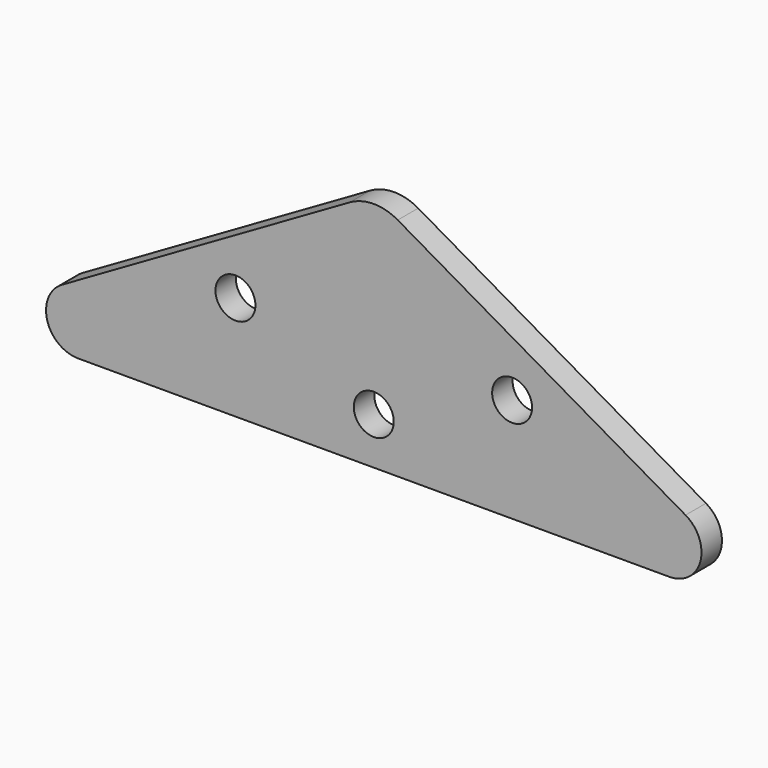
from build123d import *

# Parameters (mm, degrees)
F0_R     = 6.25
F1_DEPTH = 8


with BuildPart() as f1:
    # F0 (on Front) → F1 (new body)
    with BuildSketch(Plane.XZ):
        with BuildLine():
            Line((-92.583302, 0), (0, 0))
            Line((0, 0), (92.583302, 0))
            ThreePointArc((92.583302, 0), (102.242561, 7.41181), (97.583302, 18.660254))
            Line((97.583302, 18.660254), (7.5, 70.669873))
            ThreePointArc((7.5, 70.669873), (0, 72.679492), (-7.5, 70.669873))
            Line((-7.5, 70.669873), (-97.583302, 18.660254))
            ThreePointArc((-97.583302, 18.660254), (-102.242561, 7.41181), (-92.583302, 0))
        make_face()
        with Locations((0, 14.679492)):
            Circle(F0_R, mode=Mode.SUBTRACT)
        with Locations((-43.30127, 32.679492)):
            Circle(F0_R, mode=Mode.SUBTRACT)
        with Locations((43.30127, 32.679492)):
            Circle(F0_R, mode=Mode.SUBTRACT)
    extrude(amount=F1_DEPTH)


solid = f1.part
